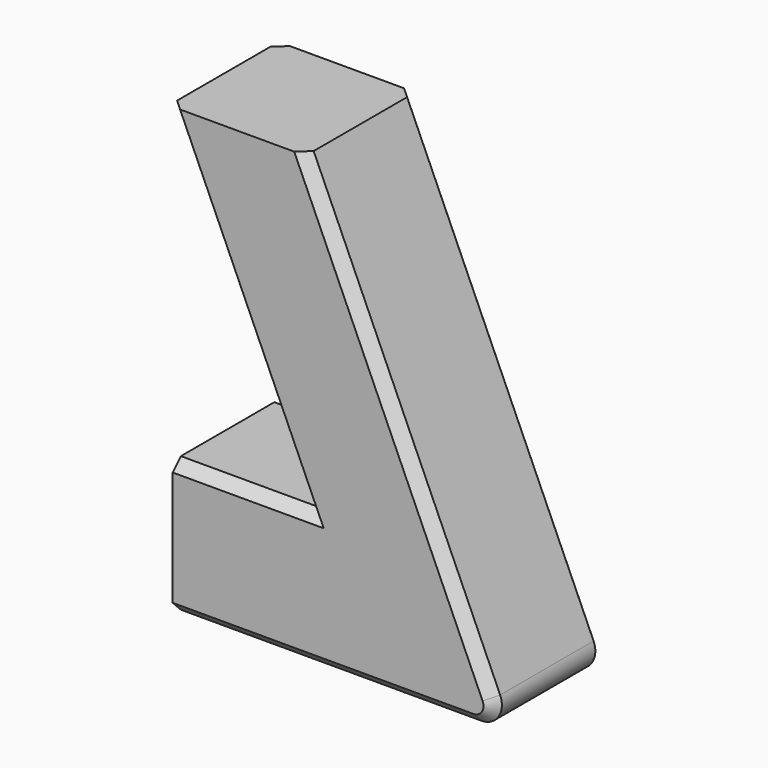
from build123d import *

# Parameters (mm, degrees)
F1_DEPTH = 67
F2_R     = 10
F3_SIZE  = 5


with BuildPart() as f1:
    # F0 (on Front) → F1 (new body)
    with BuildSketch(Plane.XZ):
        Polygon((66, 66), (0, 66), (0, 0), (162.102426, 0), (64.806874, 218.153241), (-1.859792, 218.153241), align=None)
    extrude(amount=F1_DEPTH)

    # F2
    f2_edges = [f1.edges().sort_by_distance(p)[0] for p in [
        (162.102426, -33.5, 0),
    ]]
    fillet(f2_edges, radius=F2_R)

    # F3
    f3_edges = [f1.edges().sort_by_distance(p)[0] for p in [
        (110.316348, -67, 116.113229),
        (110.316348, 0, 116.113229),
        (32.070104, -67, 142.07662),
        (32.070104, 0, 142.07662),
        (33, 0, 66),
        (33, -67, 66),
    ]]
    chamfer(f3_edges, length=F3_SIZE)


solid = f1.part
